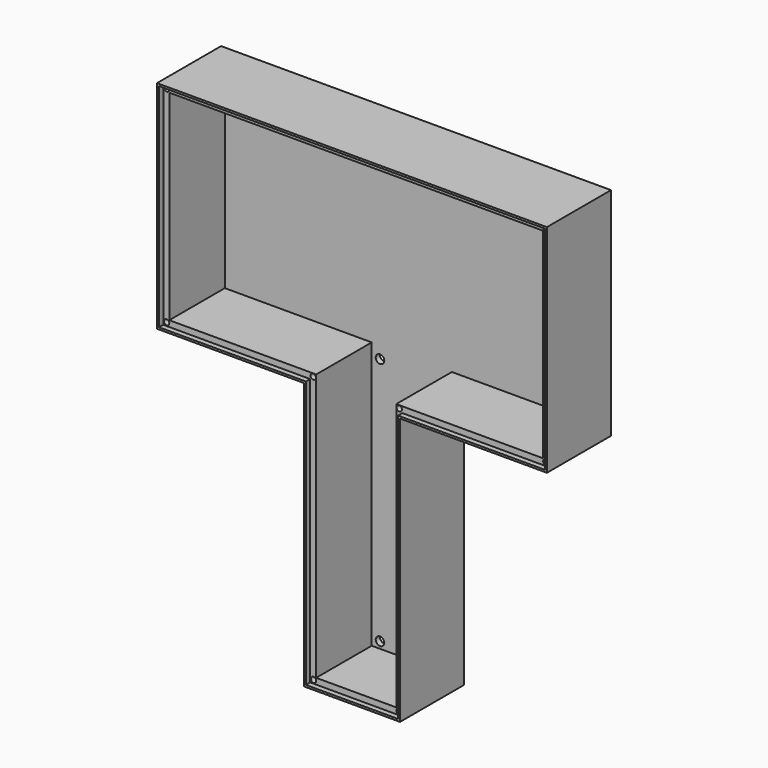
from build123d import *

# Parameters (mm, degrees)
PAD_DEPTH       = 30
POCKET_DEPTH    = 28
SKETCH002_R     = 1
POCKET001_DEPTH = 5
SKETCH003_R     = 1.6
POCKET002_DEPTH = 5
POCKET003_DEPTH = 2


with BuildPart() as part:
    # Sketch → Pad (new body)
    with BuildSketch(Plane.XZ):
        Polygon((-68.72, 55.88), (-68.72, -25.12), (-13.72, -25.12), (-13.72, -125.12), (22.28, -125.12), (22.28, -25.12), (77.28, -25.12), (77.28, 55.88), align=None)
    extrude(amount=PAD_DEPTH)

    # Sketch001 (on Face10 of Pad) → Pocket (cut)
    with BuildSketch(Plane.XZ.offset(30)):
        Polygon((-65.72, 52.88), (-65.72, -22.12), (-10.72, -22.12), (-10.72, -122.12), (19.28, -122.12), (19.28, -22.12), (74.28, -22.12), (74.28, 52.88), align=None)
    extrude(amount=-POCKET_DEPTH, mode=Mode.SUBTRACT)

    # Sketch002 (on Face10 of Pad) → Pocket001 (cut)
    with BuildSketch(Plane.XZ.offset(30)):
        with Locations((-11.82, -23.22)):
            Circle(SKETCH002_R)
        with Locations((-11.72, -123.12)):
            Circle(SKETCH002_R)
        with Locations((20.38, -23.22)):
            Circle(SKETCH002_R)
        with Locations((20.28, -123.12)):
            Circle(SKETCH002_R)
        with Locations((-66.72, -23.12)):
            Circle(SKETCH002_R)
        with Locations((75.28, -23.12)):
            Circle(SKETCH002_R)
        with Locations((75.28, 53.88)):
            Circle(SKETCH002_R)
        with Locations((-66.72, 53.88)):
            Circle(SKETCH002_R)
    extrude(amount=-POCKET001_DEPTH, mode=Mode.SUBTRACT)

    # Sketch003 (on Face28 of Pocket001) → Pocket002 (cut)
    with BuildSketch(Plane.XZ.offset(2)):
        with Locations((-7.62, -119.62)):
            Circle(SKETCH003_R)
        with Locations((16.78, -119.62)):
            Circle(SKETCH003_R)
        with Locations((-7.62, -26.62)):
            Circle(SKETCH003_R)
        with Locations((16.78, -26.62)):
            Circle(SKETCH003_R)
    extrude(amount=-POCKET002_DEPTH, mode=Mode.SUBTRACT)

    # Sketch004 (on Face5 of Pocket002) → Pocket003 (cut)
    with BuildSketch(Plane.XZ.offset(30)):
        Polygon((-67.97, 55.13), (-67.97, -24.37), (-12.97, -24.37), (-12.97, -124.37), (21.53, -124.37), (21.53, -24.37), (76.53, -24.37), (76.53, 55.13), align=None)
    extrude(amount=-POCKET003_DEPTH, mode=Mode.SUBTRACT)


solid = part.part
